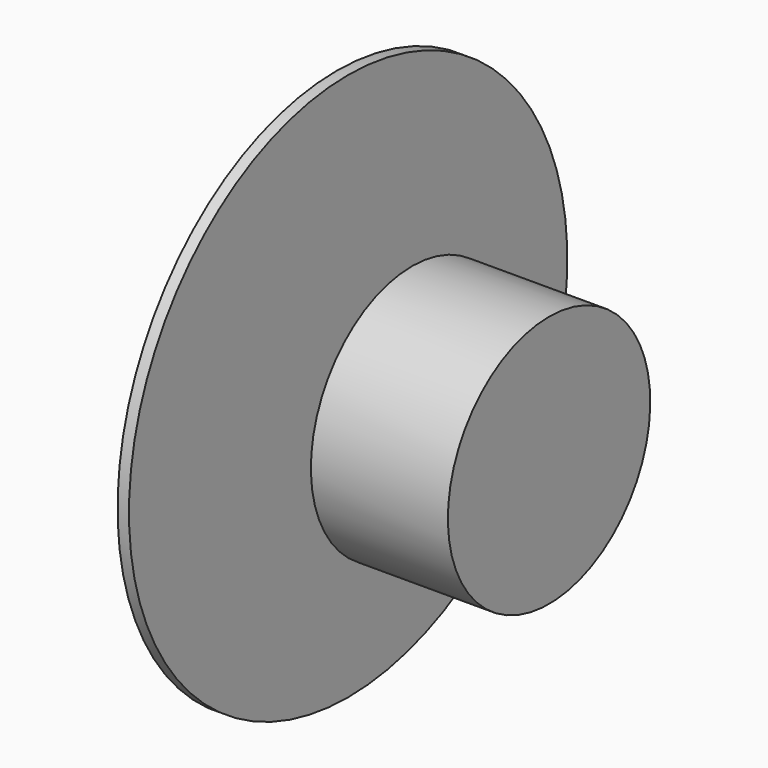
from build123d import *

# Parameters (mm, degrees)
CYLINDER001_R             = 3.175
CYLINDER001_DEPTH         = 14
CYLINDER_R                = 27.7
CYLINDER_DEPTH            = 30
FUSION001_PLACEMENT_ANGLE = 90
CYLINDER003_R             = 60
CYLINDER003_DEPTH         = 2.5


with BuildPart() as cylinder:
    # Cylinder001 → Cylinder001 (new body)
    with BuildSketch(Plane.XY.offset(30)):
        Circle(CYLINDER001_R)
    extrude(amount=CYLINDER001_DEPTH)


with BuildPart() as motor:
    # Cylinder → Cylinder (new body)
    with BuildSketch(Plane.XY):
        Circle(CYLINDER_R)
    extrude(amount=CYLINDER_DEPTH)

    # Fusion001: union Cylinder
    add(cylinder.part)


with BuildPart() as motor_1:
    # Fusion001 placement: moved
    add(motor.part.moved(Location((88.412596, -158.1, 45.549103))).rotate(Axis((88.412596, -158.1, 45.549103), (0, -1, 0)), FUSION001_PLACEMENT_ANGLE))


with BuildPart() as motor_with_prop:
    # Cylinder003 → Cylinder003 (new body)
    with BuildSketch(Plane(origin=(44.412596, -158.1, 45.549103), x_dir=(0, 0, 1), z_dir=(-1, 0, 0))):
        Circle(CYLINDER003_R)
    extrude(amount=CYLINDER003_DEPTH)

    # Fusion005: union motor
    add(motor_1.part)


with BuildPart() as motor_with_prop_1:
    # Fusion005 placement: moved
    add(motor_with_prop.part.moved(Location((-8.2, 23.5, -1.1))))


solid = motor_with_prop_1.part
